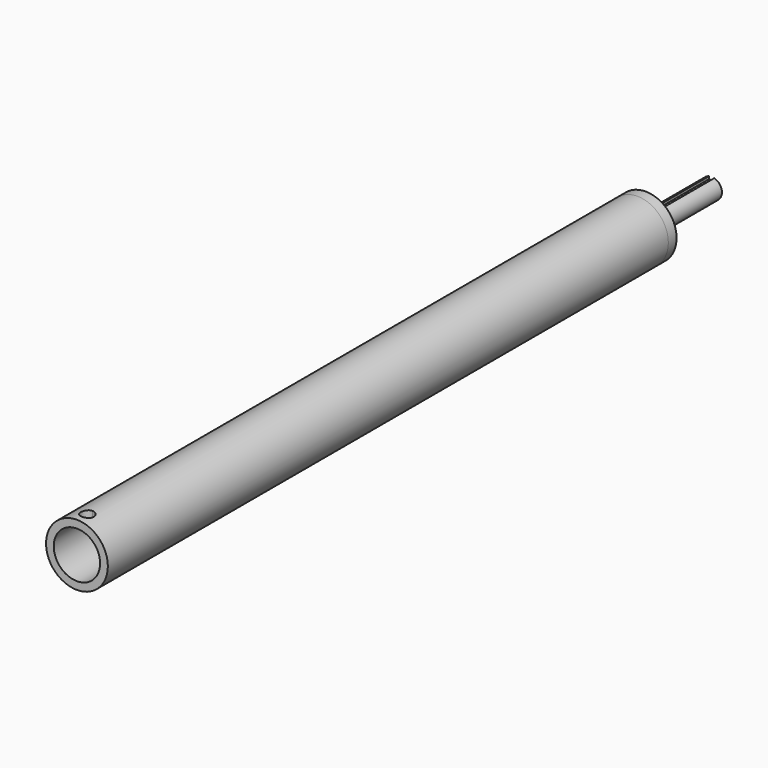
from build123d import *

# Parameters (mm, degrees)
F0_R      = 19.05
F0_R_2    = 14.2875
F1_DEPTH  = 431.8
F2_R      = 19.05
F3_DEPTH  = 6.35
F4_R      = 6.35
F5_DEPTH  = 50.8
F6_W      = 1.6129
F6_H      = 1.778
F7_DEPTH  = 38.1
F10_DEPTH = 9.525


with BuildPart() as f1:
    # F0 (on Front) → F1 (new body)
    with BuildSketch(Plane.XZ):
        Circle(F0_R)
        Circle(F0_R_2, mode=Mode.SUBTRACT)
    extrude(amount=F1_DEPTH)

    # F2 (on face) → F3 (join)
    with BuildSketch(Plane(origin=(0, 0, 0), x_dir=(-1, 0, 0), z_dir=(0, 1, 0))):
        Circle(F2_R)
    extrude(amount=F3_DEPTH)

    # F4 (on face) → F5 (join)
    with BuildSketch(Plane(origin=(0, 6.35, 0), x_dir=(-1, 0, 0), z_dir=(0, 1, 0))):
        Circle(F4_R)
    extrude(amount=F5_DEPTH)

    # F6 (on face) → F7 (cut)
    with BuildSketch(Plane(origin=(0, 57.15, 0), x_dir=(-1, 0, 0), z_dir=(0, 1, 0))):
        with Locations((-0.80645, 5.461)):
            Rectangle(F6_W, F6_H)
        with Locations((0.80645, 5.461)):
            Rectangle(F6_W, F6_H)
    extrude(amount=-F7_DEPTH, mode=Mode.SUBTRACT)

    # F9 (on offset) → F10 (cut)
    with BuildSketch(Plane.XY.offset(19.05)):
        with BuildLine():
            ThreePointArc((0, -419.89375), (-2.80633, -426.66883), (3.96875, -423.8625))
            ThreePointArc((3.96875, -423.8625), (2.80633, -421.05617), (0, -419.89375))
        make_face()
    extrude(amount=-F10_DEPTH, mode=Mode.SUBTRACT)


solid = f1.part
